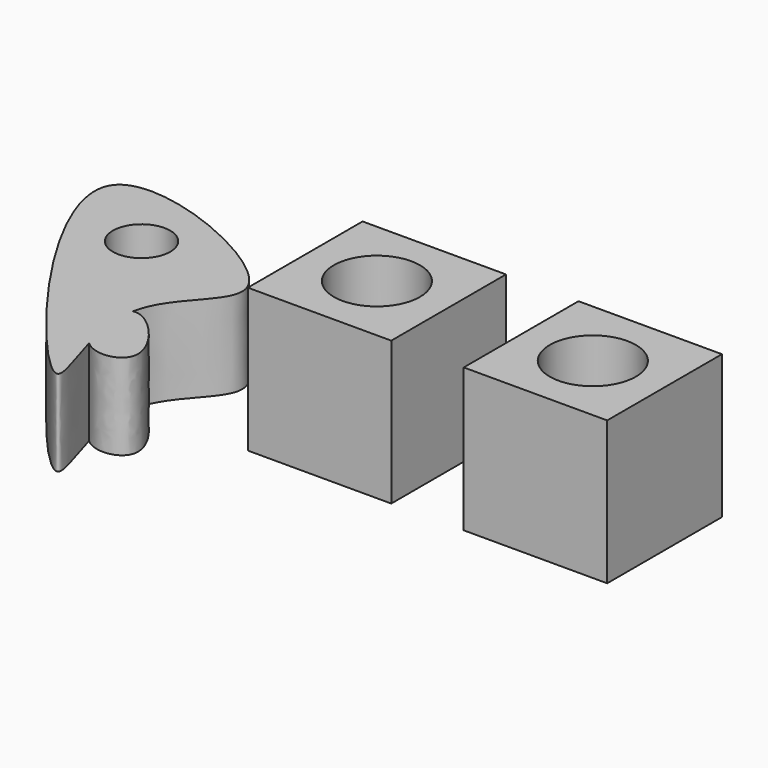
from build123d import *

# Parameters (mm, degrees)
F0_W     = 50
F0_H     = 50
F1_DEPTH = 50
F2_R     = 15
F3_DEPTH = 50
F4_W     = 50
F4_H     = 50
F4_R     = 15
F5_DEPTH = 50
F7_DEPTH = 30
F8_R     = 10
F9_DEPTH = 30


with BuildPart() as f1:
    # F0 (on Top) → F1 (new body)
    with BuildSketch(Plane.XY):
        Rectangle(F0_W, F0_H)
    extrude(amount=F1_DEPTH)

    # F2 (on face) → F3 (cut)
    with BuildSketch(Plane.XY.offset(50)):
        Circle(F2_R)
    extrude(amount=-F3_DEPTH, mode=Mode.SUBTRACT)


with BuildPart() as f5:
    # F4 (on Top) → F5 (new body)
    with BuildSketch(Plane.XY):
        with Locations((75.2729773521, 0)):
            Rectangle(F4_W, F4_H)
        with Locations((75.2729773521, 0)):
            Circle(F4_R, mode=Mode.SUBTRACT)
    extrude(amount=F5_DEPTH)


with BuildPart() as f7:
    # F6 (on Top) → F7 (new body)
    with BuildSketch(Plane.XY):
        with BuildLine():
            add(Edge.make_bspline(
                [(-64.7039115429, -25.4668872803), (-69.6835985804, -26.9424751558), (-68.5769154664, -41.9129153667), (-62.3095395677, -47.5621969519)],
                knots=[0.6536621063, 0.6536621063, 0.6536621063, 0.6536621063, 1, 1, 1, 1], degree=3))
            add(Edge.make_bspline(
                [(-64.7039115429, -25.4668872803), (-61.9442588341, -10.6474826983), (-20.3534218039, 4.751836798), (-173.1206274633, 70.604640196), (-44.5515628436, -92.7677922159), (-59.2984936588, -58.5539814373), (-62.3095395677, -47.5621969519)],
                knots=[0, 0, 0, 0, 0.1883873751, 0.4557026741, 0.7929863019, 0.9168854668, 0.9168854668, 0.9168854668, 0.9168854668], degree=3))
        make_face()
        with BuildLine():
            add(Edge.make_bspline(
                [(-62.3095395677, -47.5621969519), (-57.2426387105, -52.1293954365), (-37.5394746181, -48.5689596674), (-59.331341184, -23.8748796658), (-64.7039115429, -25.4668872803)],
                knots=[0, 0, 0, 0, 0.2799991255, 0.6536621063, 0.6536621063, 0.6536621063, 0.6536621063], degree=3))
            add(Edge.make_bspline(
                [(-62.3095395677, -47.5621969519), (-64.329421424, -40.1886441332), (-65.9214413619, -32.005053087), (-64.7039115429, -25.4668872803)],
                knots=[0.9168854668, 0.9168854668, 0.9168854668, 0.9168854668, 1, 1, 1, 1], degree=3))
        make_face()
        with BuildLine():
            add(Edge.make_bspline(
                [(-62.3095395677, -47.5621969519), (-64.329421424, -40.1886441332), (-65.9214413619, -32.005053087), (-64.7039115429, -25.4668872803)],
                knots=[0.9168854668, 0.9168854668, 0.9168854668, 0.9168854668, 1, 1, 1, 1], degree=3))
            add(Edge.make_bspline(
                [(-64.7039115429, -25.4668872803), (-69.6835985804, -26.9424751558), (-68.5769154664, -41.9129153667), (-62.3095395677, -47.5621969519)],
                knots=[0.6536621063, 0.6536621063, 0.6536621063, 0.6536621063, 1, 1, 1, 1], degree=3))
        make_face()
    extrude(amount=F7_DEPTH)

    # F8 (on face) → F9 (cut)
    with BuildSketch(Plane.XY.offset(30)):
        with Locations((-88.6982232332, 8.3174416795)):
            Circle(F8_R)
    extrude(amount=-F9_DEPTH, mode=Mode.SUBTRACT)


solid = Compound([f1.part, f5.part, f7.part])
